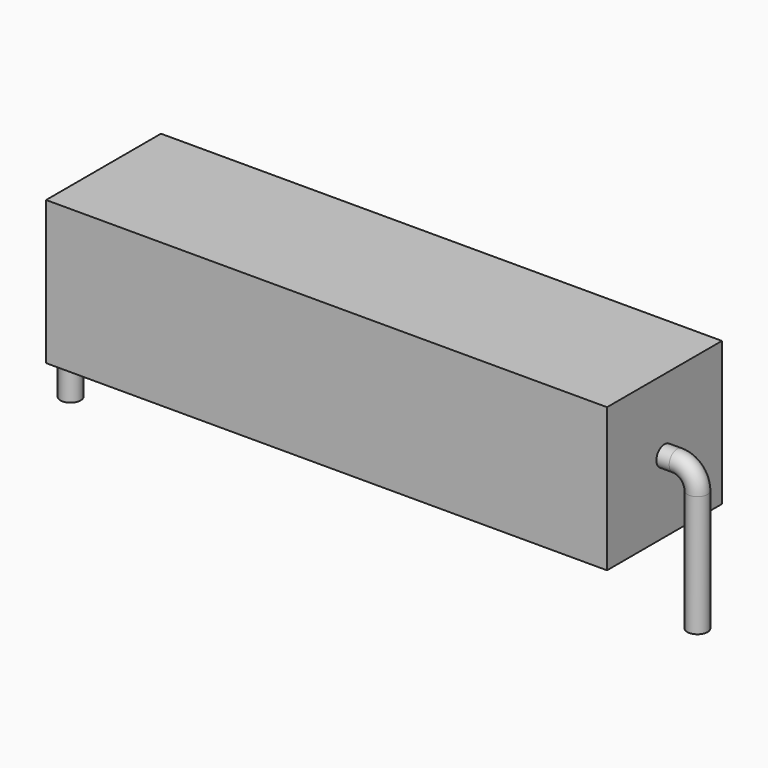
from build123d import *

# Parameters (mm, degrees)
SKETCH_R    = 0.45
SKETCH002_W = 25
SKETCH002_H = 6.4
PAD_DEPTH   = 3.2


with BuildPart() as sweep_body:
    # Sweep: sweep along a path in Sketch001
    with BuildLine(Plane.XZ) as sweep_path:
        Line((0, -3), (0, 2.4))
        ThreePointArc((0, 2.4), (0.263608, 3.0364), (0.900012, 3.3))
        Line((0.900012, 3.3), (27.04, 3.3))
        ThreePointArc((27.04, 3.3), (27.676396, 3.036396), (27.94, 2.4))
        Line((27.94, 2.4), (27.94, -3))
    # Sketch → Sweep (sweep)
    with BuildSketch(Plane.XY.offset(-2)):
        Circle(SKETCH_R)
    sweep(path=sweep_path.line)


with BuildPart() as pad:
    # Sketch002 → Pad (new body, symmetric)
    with BuildSketch(Plane.XZ):
        with Locations((13.97, 3.3)):
            Rectangle(SKETCH002_W, SKETCH002_H)
    extrude(amount=PAD_DEPTH, both=True)


solid = Compound([sweep_body.part, pad.part])
